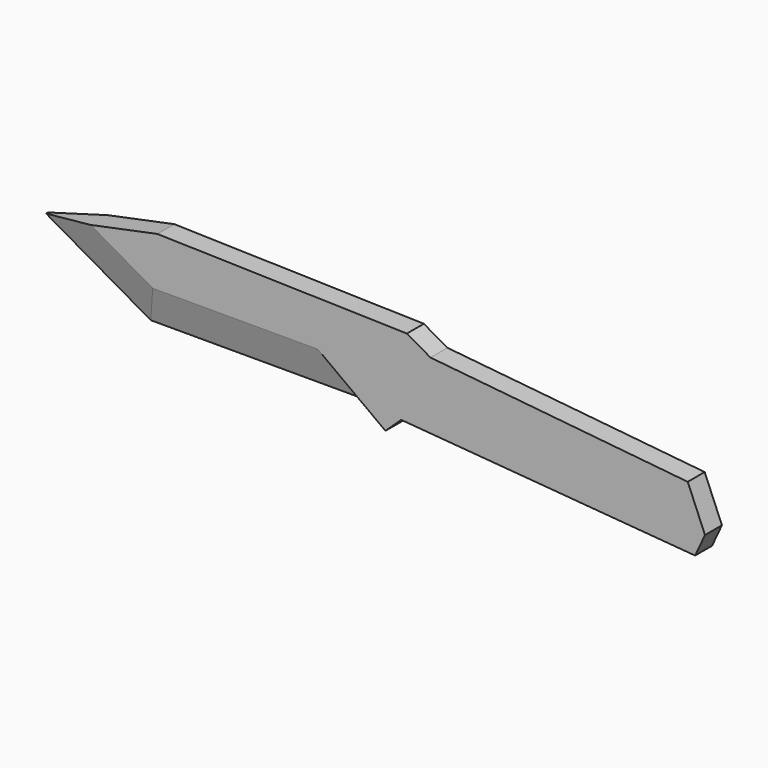
from build123d import *

# Parameters (mm, degrees)
F1_DEPTH = 6.858
F4_SIZE2 = 11.3752908615
F4_SIZE  = 3.048
F5_SIZE2 = 3.048
F5_SIZE  = 11.3752908615


with BuildPart() as f1:
    # F0 (on Front) → F1 (new body)
    with BuildSketch(Plane.XZ):
        Polygon((25.9381346405, 7.736035157), (14.33934737, 7.736035157), (20.8550654352, 2.9368868563), align=None)
        Polygon((-53.0272046242, 35.0727677199), (-91.5240803441, 27.1352675399), (-57.573735714, 7.736035157), (14.33934737, 7.736035157), (25.9381346405, 7.736035157), (121.1881346405, 0), (124.3759196559, 6.8946417749), (118.7927769162, 20.2559313961), (35.4490326759, 28.5903061262), (27.808678696, 32.9560056193), align=None)
    extrude(amount=F1_DEPTH)

    # F4
    f4_edges = [f1.edges().sort_by_distance(p)[0] for p in [
        (-74.548908, -6.858, 17.435651),
        (-21.617194, -6.858, 7.736035),
    ]]
    chamfer(f4_edges, length=F4_SIZE, length2=F4_SIZE2)

    # F5
    f5_edges = [f1.edges().sort_by_distance(p)[0] for p in [
        (-74.548908, 0, 17.435651),
        (-21.617194, 0, 7.736035),
    ]]
    f5_side = f1.faces().sort_by_distance((17.333868, 0, 18.236696))[0]
    chamfer(f5_edges, length=F5_SIZE, length2=F5_SIZE2, reference=f5_side)


solid = f1.part
